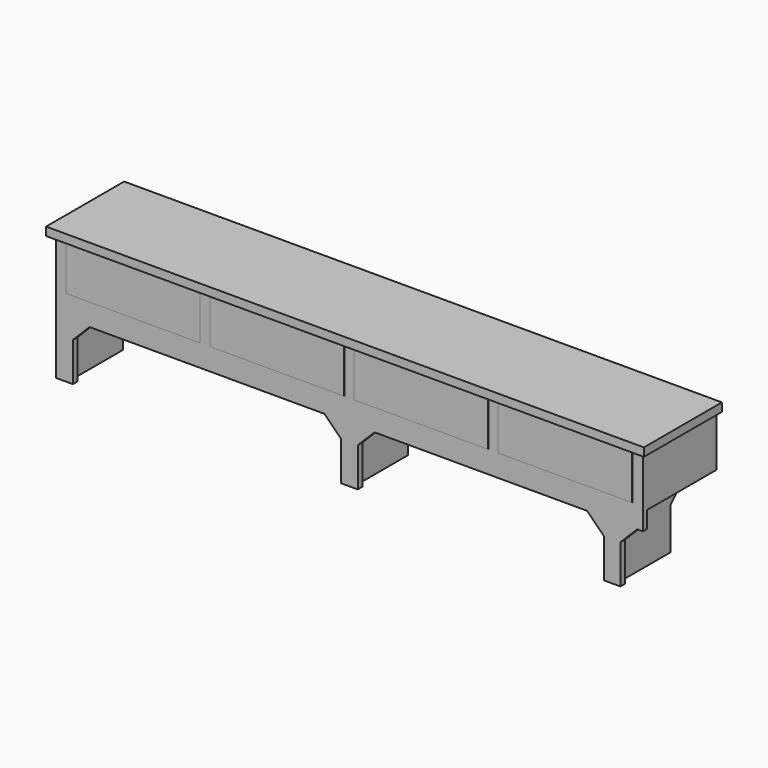
from build123d import *

# Parameters (mm, degrees)
F0_W          = 2724.15
F0_H          = 419.1
F1_DEPTH      = 609.6
F3_DEPTH      = 1362.076
F3_DEPTH_BACK = 1362.076
F4_W          = 25.4
F4_H          = 571.5
F5_DEPTH      = 419.101
F7_DEPTH      = 419.101
F8_W          = 609.6
F8_H          = 215.9
F9_DEPTH      = 2.54
F11_DEPTH     = 393.7
F12_W         = 2724.15
F12_H         = 38.1
F13_DEPTH     = 25.4


with BuildPart() as f1:
    # F0 (on Top) → F1 (new body)
    with BuildSketch(Plane.XY):
        with Locations((0, -209.55)):
            Rectangle(F0_W, F0_H)
    extrude(amount=-F1_DEPTH)

    # F2 (on Right) → F3 (cut, two sides)
    with BuildSketch(Plane.YZ) as f3_sk:
        Polygon((-101.6, -419.1), (-101.6, -609.6), (0, -609.6), (0, -368.3), (-50.8, -368.3), align=None)
    extrude(amount=F3_DEPTH, mode=Mode.SUBTRACT)
    extrude(f3_sk.sketch, amount=-F3_DEPTH_BACK, mode=Mode.SUBTRACT)

    # F4 (on face) → F5 (cut, through all)
    with BuildSketch(Plane.XZ.offset(419.1)):
        with Locations((1349.375, -323.85)):
            Rectangle(F4_W, F4_H)
        with Locations((-1349.375, -323.85)):
            Rectangle(F4_W, F4_H)
    extrude(amount=-F5_DEPTH, mode=Mode.SUBTRACT)

    # F6 (on face) → F7 (cut, through all)
    with BuildSketch(Plane.XZ.offset(419.1)):
        Polygon((-1260.475, -431.8), (-1260.475, -609.6), (-38.1, -609.6), (-38.1, -431.8), (-114.3, -355.6), (-1184.275, -355.6), align=None)
        Polygon((38.1, -431.8), (38.1, -609.6), (1158.875, -609.6), (1158.875, -431.8), (1082.675, -355.6), (114.3, -355.6), align=None)
        Polygon((1235.075, -431.8), (1235.075, -609.6), (1336.675, -609.6), (1336.675, -355.6), (1311.275, -355.6), align=None)
    extrude(amount=-F7_DEPTH, mode=Mode.SUBTRACT)

    # F8 (on face) → F9 (join)
    with BuildSketch(Plane.XZ.offset(419.1)):
        with Locations((-984.885, -146.05)):
            Rectangle(F8_W, F8_H)
        with Locations((-328.295, -146.05)):
            Rectangle(F8_W, F8_H)
        with Locations((328.295, -146.05)):
            Rectangle(F8_W, F8_H)
        with Locations((984.885, -146.05)):
            Rectangle(F8_W, F8_H)
    extrude(amount=F9_DEPTH)

    # F10 (on face) → F11 (cut, through all)
    with BuildSketch(Plane(origin=(0, 0, 0), x_dir=(-1, 0, 0), z_dir=(0, 1, 0))):
        Polygon((-1184.275, -609.6), (-1209.675, -609.6), (-1209.675, -279.4), (-1336.675, -279.4), (-1336.675, -635), (1336.675, -635), (1336.675, -279.4), (1311.275, -279.4), (1311.275, -609.6), (1285.875, -609.6), (1285.875, -279.4), (12.7, -279.4), (12.7, -609.6), (-12.7, -609.6), (-12.7, -279.4), (-1184.275, -279.4), align=None)
    extrude(amount=-F11_DEPTH, mode=Mode.SUBTRACT)

    # F12 (on face) → F13 (join)
    with BuildSketch(Plane.XZ.offset(419.1)):
        with Locations((0, -19.05)):
            Rectangle(F12_W, F12_H)
    extrude(amount=F13_DEPTH)


solid = f1.part
